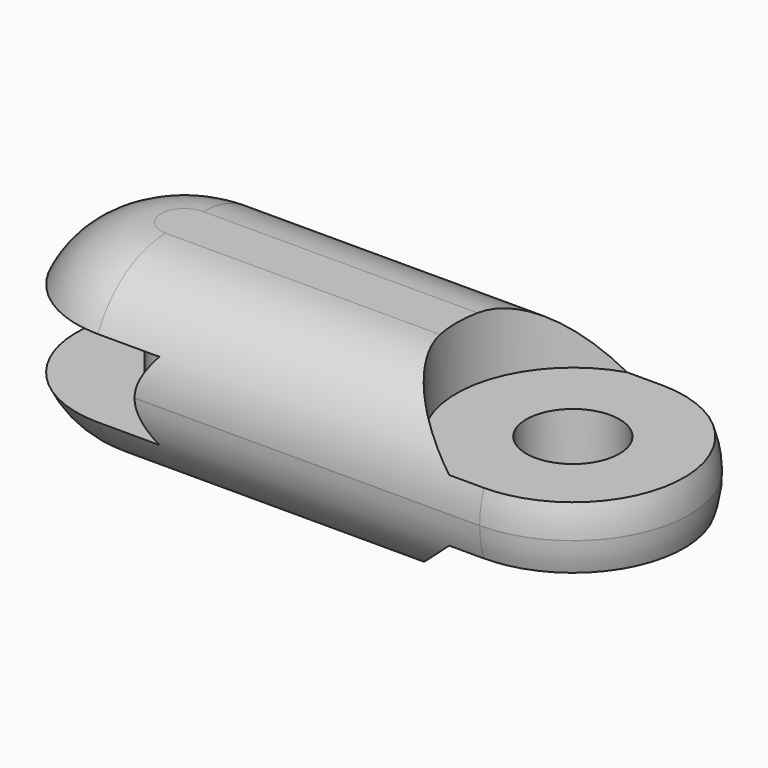
from build123d import *

# Parameters (mm, degrees)
PAD_DEPTH       = 6
FILLET_R        = 5.99
SKETCH001_R     = 8
POCKET_DEPTH    = 2.5
SKETCH002_R     = 7.5
POCKET001_DEPTH = 4.001
SKETCH003_R     = 7.5
POCKET002_DEPTH = 4.001
SKETCH004_R     = 3
POCKET003_DEPTH = 4
SKETCH005_R     = 2
PAD001_DEPTH    = 5


with BuildPart() as part:
    # Sketch → Pad (new body, symmetric)
    with BuildSketch(Plane.XY):
        with BuildLine():
            ThreePointArc((0, 7.5), (-7.5, 0), (0, -7.5))
            Line((0, -7.5), (25, -7.5))
            ThreePointArc((25, -7.5), (32.5, 0), (25, 7.5))
            Line((25, 7.5), (0, 7.5))
        make_face()
    extrude(amount=PAD_DEPTH, both=True)

    # Fillet
    fillet_edges = [part.edges().sort_by_distance(p)[0] for p in [
        (0, -7.5, 0),
        (25, -7.5, 0),
        (12.5, -7.5, -6),
        (12.5, -7.5, 6),
    ]]
    fillet(fillet_edges, radius=FILLET_R)

    # Sketch001 → Pocket (cut, symmetric)
    with BuildSketch(Plane.XY):
        Circle(SKETCH001_R)
    extrude(amount=POCKET_DEPTH, both=True, mode=Mode.SUBTRACT)

    # Sketch002 → Pocket001 (cut, through all)
    with BuildSketch(Plane.XY.offset(2)):
        with Locations((25, 0)):
            Circle(SKETCH002_R)
    extrude(amount=POCKET001_DEPTH, mode=Mode.SUBTRACT)

    # Sketch003 → Pocket002 (cut, through all)
    with BuildSketch(Plane.XY.offset(-2)):
        with Locations((25, 0)):
            Circle(SKETCH003_R)
    extrude(amount=-POCKET002_DEPTH, mode=Mode.SUBTRACT)

    # Sketch004 (on Face17 of Pocket002) → Pocket003 (cut)
    with BuildSketch(Plane.XY.offset(2)):
        with Locations((25, 0)):
            Circle(SKETCH004_R)
    extrude(amount=-POCKET003_DEPTH, mode=Mode.SUBTRACT)

    # Sketch005 (on Face6 of Pocket003) → Pad001 (join)
    with BuildSketch(Plane.XY.offset(-2.5)):
        Circle(SKETCH005_R)
    extrude(amount=PAD001_DEPTH)


solid = part.part
